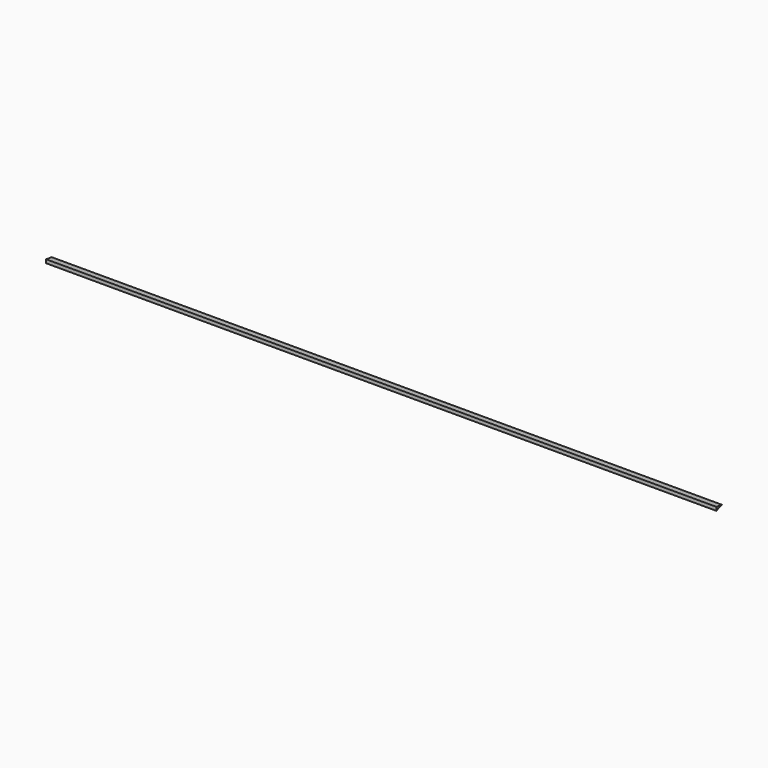
from build123d import *

# Parameters (mm, degrees)
F1_DEPTH = 1203.325


with BuildPart() as f1:
    # F0 (on Right) → F1 (new body, symmetric)
    with BuildSketch(Plane.YZ):
        Polygon((170.7679113517, 108.8032241349), (145.3679113517, 112.6278348013), (145.3679113517, 99.9278348013), align=None)
    extrude(amount=F1_DEPTH, both=True)


solid = f1.part
